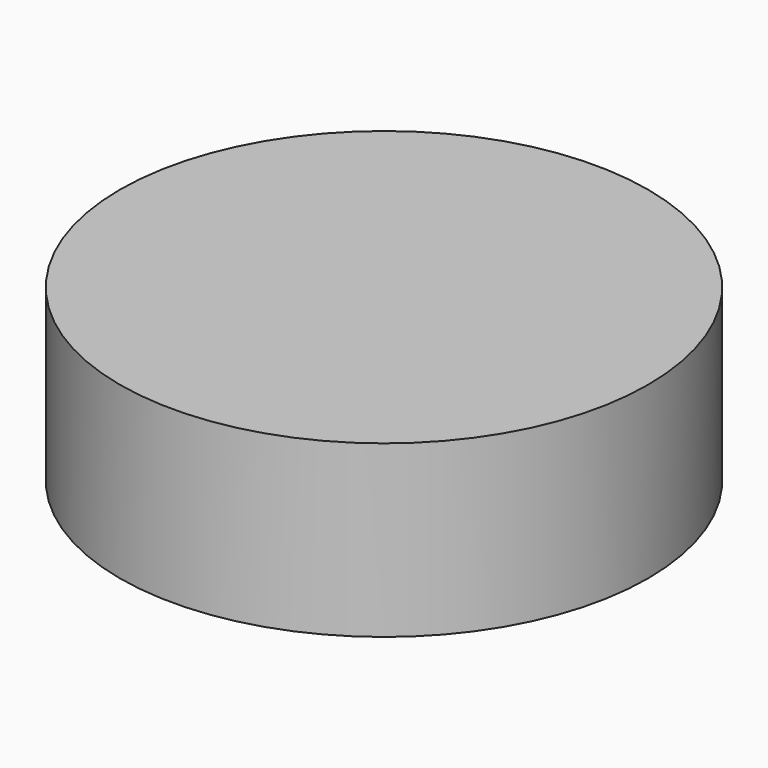
from build123d import *

# Parameters (mm, degrees)
F0_R     = 39.356663
F1_DEPTH = 25.4


with BuildPart() as f1:
    # F0 (on Top) → F1 (new body)
    with BuildSketch(Plane.XY):
        with Locations((44.597685, 0)):
            Circle(F0_R)
    extrude(amount=-F1_DEPTH)


solid = f1.part
